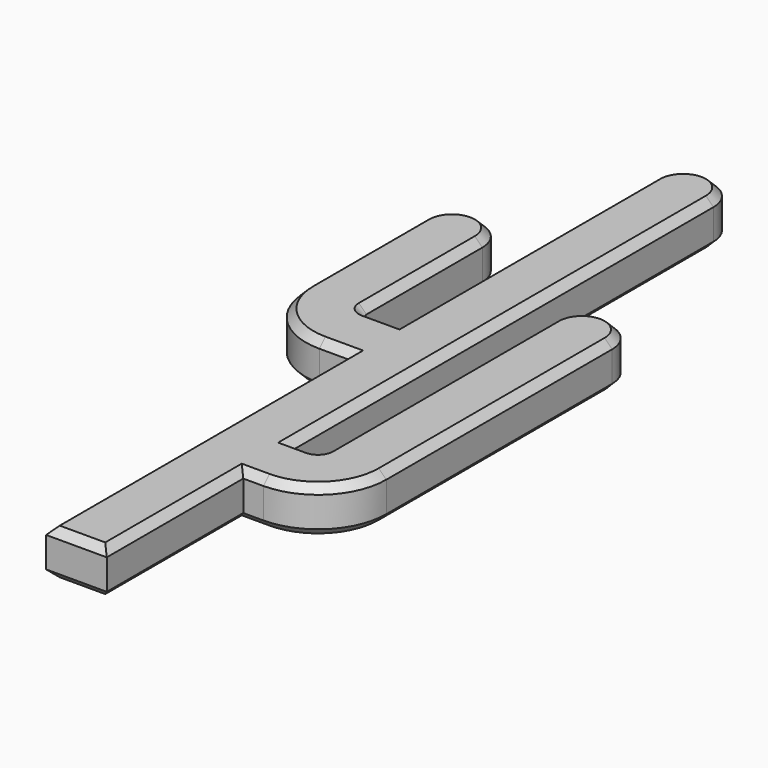
from build123d import *

# Parameters (mm, degrees)
F0_W     = 1.4632290646
F0_H     = 3.2
F0_W_2   = 1.9813749596
F1_DEPTH = 2.4
F2_R     = 3.6
F3_R     = 0.4
F4_SIZE  = 0.4


with BuildPart() as f1:
    # F0 (on Top) → F1 (new body)
    with BuildSketch(Plane.XY):
        with BuildLine():
            Line((-1.6, 0), (1.6, 0))
            ThreePointArc((1.6, 0), (0, 1.6), (-1.6, 0))
        make_face()
        with BuildLine():
            Line((1.6, -27.8004167259), (1.6, 0))
            ThreePointArc((1.6, 0), (0, -1.6), (-1.6, 0))
            Line((-1.6, 0), (-1.6, -16.8))
            Line((-1.6, -16.8), (-1.6, -20))
            Line((-1.6, -20), (-1.6, -40))
            Line((-1.6, -40), (1.6, -40))
            Line((1.6, -40), (1.6, -31.0004167259))
            Line((1.6, -31.0004167259), (1.6, -27.8004167259))
        make_face()
        with BuildLine():
            ThreePointArc((-1.6, 0), (0, -1.6), (1.6, 0))
            Line((1.6, 0), (-1.6, 0))
        make_face()
        with Locations((2.3316145323, -29.4004167259)):
            Rectangle(F0_W, F0_H)
        with Locations((-2.5906874798, -18.4)):
            Rectangle(F0_W_2, F0_H)
        with BuildLine():
            Line((3.0632290646, -12.50463631), (3.0632290646, -27.8004167259))
            Line((3.0632290646, -27.8004167259), (3.0632290646, -31.0004167259))
            Line((3.0632290646, -31.0004167259), (6.2632290646, -31.0004167259))
            Line((6.2632290646, -31.0004167259), (6.2632290646, -12.50463631))
            ThreePointArc((6.2632290646, -12.50463631), (4.6632290646, -14.10463631), (3.0632290646, -12.50463631))
        make_face()
        with BuildLine():
            Line((-3.5813749596, -20), (-3.5813749596, -16.8))
            Line((-3.5813749596, -16.8), (-3.5813749596, -8.7620876729))
            ThreePointArc((-3.5813749596, -8.7620876729), (-5.1813749596, -10.3620876729), (-6.7813749596, -8.7620876729))
            Line((-6.7813749596, -8.7620876729), (-6.7813749596, -20))
            Line((-6.7813749596, -20), (-3.5813749596, -20))
        make_face()
        with BuildLine():
            ThreePointArc((6.2632290646, -12.50463631), (4.6632290646, -10.90463631), (3.0632290646, -12.50463631))
            Line((3.0632290646, -12.50463631), (6.2632290646, -12.50463631))
        make_face()
        with BuildLine():
            Line((6.2632290646, -12.50463631), (3.0632290646, -12.50463631))
            ThreePointArc((3.0632290646, -12.50463631), (4.6632290646, -14.10463631), (6.2632290646, -12.50463631))
        make_face()
        with BuildLine():
            ThreePointArc((-6.7813749596, -8.7620876729), (-5.1813749596, -10.3620876729), (-3.5813749596, -8.7620876729))
            Line((-3.5813749596, -8.7620876729), (-6.7813749596, -8.7620876729))
        make_face()
        with BuildLine():
            Line((-6.7813749596, -8.7620876729), (-3.5813749596, -8.7620876729))
            ThreePointArc((-3.5813749596, -8.7620876729), (-5.1813749596, -7.1620876729), (-6.7813749596, -8.7620876729))
        make_face()
    extrude(amount=F1_DEPTH)

    # F2
    f2_edges = [f1.edges().sort_by_distance(p)[0] for p in [
        (-6.781375, -20, 1.2),
        (6.263229, -31.000417, 1.2),
    ]]
    fillet(f2_edges, radius=F2_R)

    # F3
    f3_edges = [f1.edges().sort_by_distance(p)[0] for p in [
        (-3.581375, -16.8, 1.2),
        (3.063229, -27.800417, 1.2),
    ]]
    fillet(f3_edges, radius=F3_R)

    # F4
    f4_edges = [f1.edges().sort_by_distance(p)[0] for p in [
        (-3.581375, -12.581044, 2.4),
        (-3.464218, -16.682843, 2.4),
        (-5.181375, -7.162088, 2.4),
        (-2.390687, -16.8, 2.4),
        (-6.781375, -12.581044, 2.4),
        (-1.6, -8.4, 2.4),
        (-5.726959, -18.945584, 2.4),
        (0, 1.6, 2.4),
        (-2.390687, -20, 2.4),
        (1.6, -13.900208, 2.4),
        (-1.6, -30, 2.4),
        (2.131615, -27.800417, 2.4),
        (0, -40, 2.4),
        (2.946072, -27.683259, 2.4),
        (1.6, -35.500208, 2.4),
        (3.063229, -19.952527, 2.4),
        (2.131615, -31.000417, 2.4),
        (4.663229, -10.904636, 2.4),
        (5.208813, -29.946001, 2.4),
        (6.263229, -19.952527, 2.4),
        (-3.581375, -12.581044, 0),
        (-3.464218, -16.682843, 0),
        (-5.181375, -7.162088, 0),
        (-2.390687, -16.8, 0),
        (-6.781375, -12.581044, 0),
        (-1.6, -8.4, 0),
        (-5.726959, -18.945584, 0),
        (0, 1.6, 0),
        (-2.390687, -20, 0),
        (1.6, -13.900208, 0),
        (-1.6, -30, 0),
        (2.131615, -27.800417, 0),
        (0, -40, 0),
        (2.946072, -27.683259, 0),
        (1.6, -35.500208, 0),
        (3.063229, -19.952527, 0),
        (2.131615, -31.000417, 0),
        (4.663229, -10.904636, 0),
        (5.208813, -29.946001, 0),
        (6.263229, -19.952527, 0),
    ]]
    chamfer(f4_edges, length=F4_SIZE)


solid = f1.part
